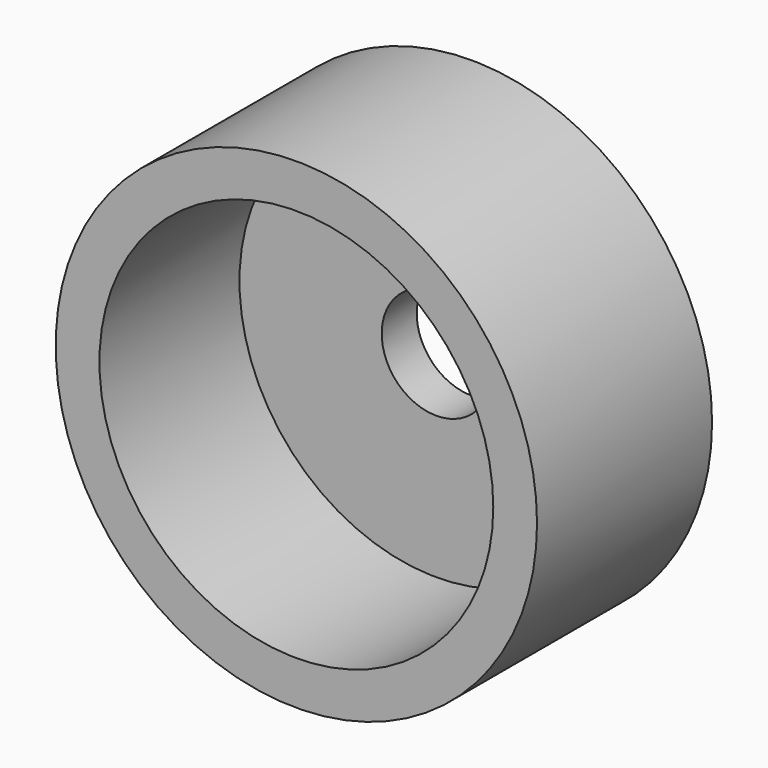
from build123d import *

# Parameters (mm, degrees)
F0_R     = 11
F1_DEPTH = 2
F2_R     = 2.5
F3_DEPTH = 25
F4_R     = 11
F4_R_2   = 9
F5_DEPTH = 8


with BuildPart() as f1:
    # F0 (on Front) → F1 (new body)
    with BuildSketch(Plane.XZ):
        Circle(F0_R)
    extrude(amount=F1_DEPTH)

    # F2 (on face) → F3 (cut)
    with BuildSketch(Plane.XZ.offset(2)):
        Circle(F2_R)
    extrude(amount=-F3_DEPTH, mode=Mode.SUBTRACT)

    # F4 (on face) → F5 (join)
    with BuildSketch(Plane.XZ.offset(2)):
        Circle(F4_R)
        Circle(F4_R_2, mode=Mode.SUBTRACT)
    extrude(amount=F5_DEPTH)


solid = f1.part
